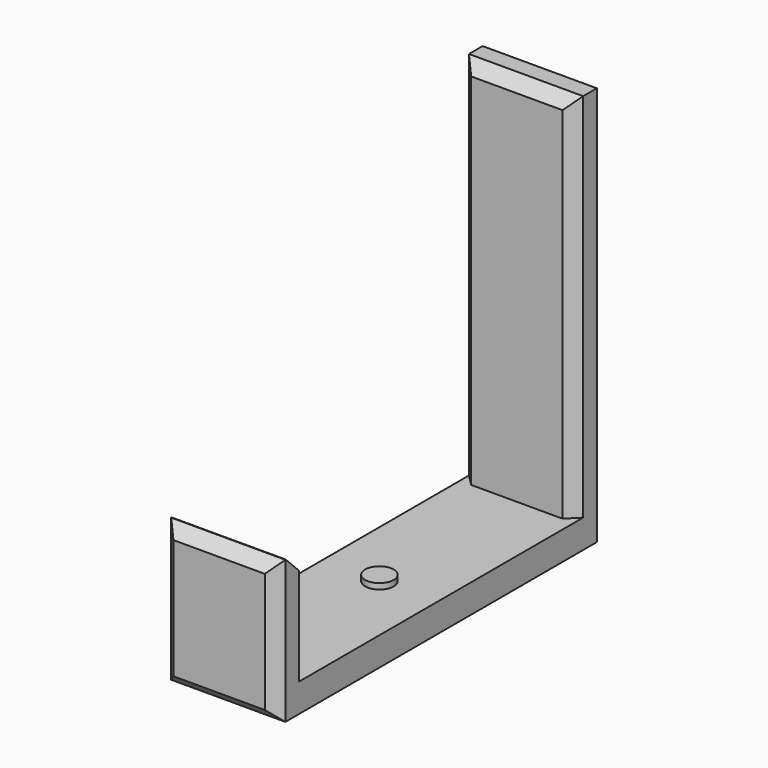
from build123d import *

# Parameters (mm, degrees)
PAD012_DEPTH    = 20
SKETCH024_R     = 2.5
PAD013_DEPTH    = 1
CHAMFER005_SIZE = 2
CHAMFER006_SIZE = 2
CHAMFER007_SIZE = 2.9


with BuildPart() as part:
    # Sketch023 → Pad012 (new body)
    with BuildSketch(Plane.YZ):
        Polygon((0, 0), (0, 70), (-5, 70), (-5, 5), (-65.2, 5), (-65.2, 25), (-70.2, 25), (-70.2, 0), align=None)
    extrude(amount=PAD012_DEPTH)

    # Sketch024 (on Face8 of Pad012) → Pad013 (join)
    with BuildSketch(Plane(origin=(0, 0, 5), x_dir=(0, -1, 0), z_dir=(0, 0, 1))):
        with Locations((35.1, 10)):
            Circle(SKETCH024_R)
    extrude(amount=PAD013_DEPTH)

    # Chamfer005
    chamfer005_edges = [part.edges().sort_by_distance(p)[0] for p in [
        (10, -70.2, 25),
        (20, -70.2, 12.5),
        (0, -70.2, 12.5),
        (10, -70.2, 0),
    ]]
    chamfer(chamfer005_edges, length=CHAMFER005_SIZE)

    # Chamfer006
    chamfer006_edges = [part.edges().sort_by_distance(p)[0] for p in [
        (20, -5, 37.5),
        (10, -5, 70),
        (0, -5, 37.5),
    ]]
    chamfer(chamfer006_edges, length=CHAMFER006_SIZE)

    # Chamfer007
    chamfer007_edges = [part.edges().sort_by_distance(p)[0] for p in [
        (10, -65.2, 25),
    ]]
    chamfer(chamfer007_edges, length=CHAMFER007_SIZE)


solid = part.part
